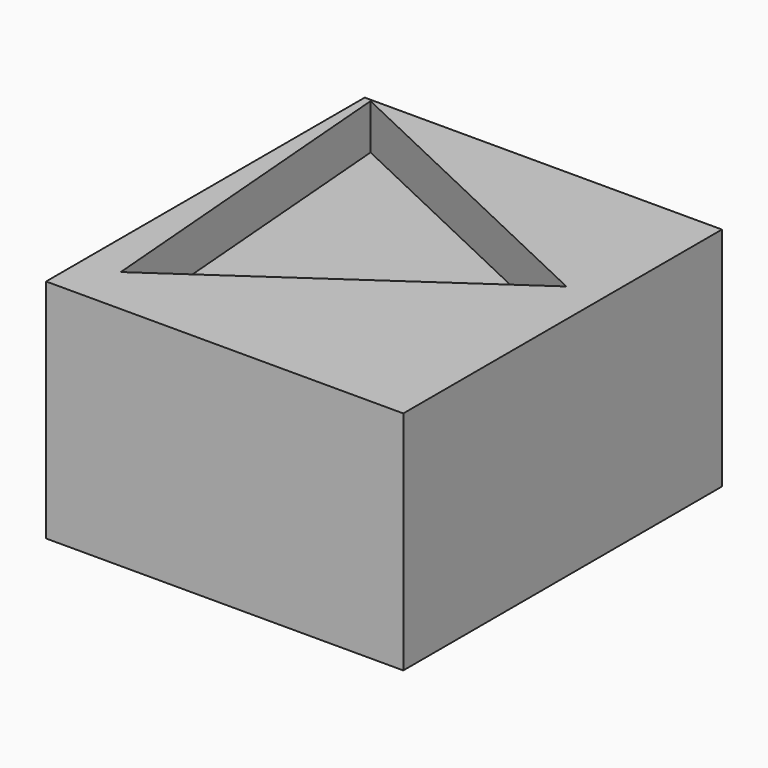
from build123d import *

# Parameters (mm, degrees)
F0_W     = 40.097177
F0_H     = 44.70605
F1_DEPTH = 25.4
F3_DEPTH = 5.08


with BuildPart() as f1:
    # F0 (on Top) → F1 (new body)
    with BuildSketch(Plane.XY):
        with Locations((-20.048588, 22.353025)):
            Rectangle(F0_W, F0_H)
    extrude(amount=F1_DEPTH)

    # F2 (on face) → F3 (cut)
    with BuildSketch(Plane.XY.offset(25.4)):
        Polygon((-36.102034, 5.48089), (-3.896293, 27.746747), (-39.281961, 44.504808), align=None)
    extrude(amount=-F3_DEPTH, mode=Mode.SUBTRACT)


solid = f1.part
